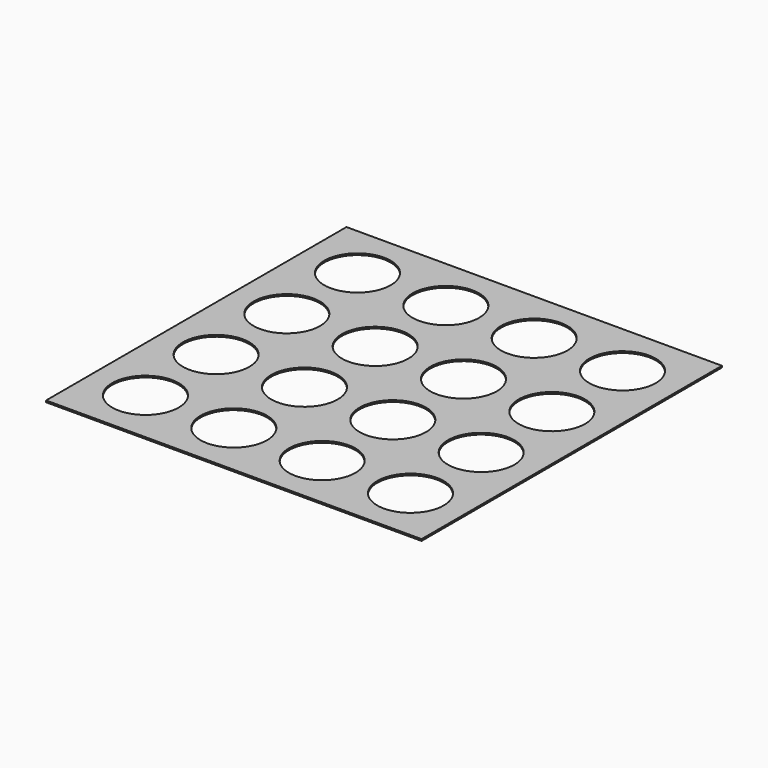
from build123d import *

# Parameters (mm, degrees)
F0_W     = 340
F0_H     = 340
F0_R     = 30.1
F1_DEPTH = 1.5


with BuildPart() as f1:
    # F0 (on Top) → F1 (new body)
    with BuildSketch(Plane.XY):
        Rectangle(F0_W, F0_H)
        with Locations((-120, -120)):
            Circle(F0_R, mode=Mode.SUBTRACT)
        with Locations((-40, -120)):
            Circle(F0_R, mode=Mode.SUBTRACT)
        with Locations((-120, -40)):
            Circle(F0_R, mode=Mode.SUBTRACT)
        with Locations((-40, -40)):
            Circle(F0_R, mode=Mode.SUBTRACT)
        with Locations((40, -120)):
            Circle(F0_R, mode=Mode.SUBTRACT)
        with Locations((120, -120)):
            Circle(F0_R, mode=Mode.SUBTRACT)
        with Locations((40, -40)):
            Circle(F0_R, mode=Mode.SUBTRACT)
        with Locations((120, -40)):
            Circle(F0_R, mode=Mode.SUBTRACT)
        with Locations((-120, 40)):
            Circle(F0_R, mode=Mode.SUBTRACT)
        with Locations((-40, 40)):
            Circle(F0_R, mode=Mode.SUBTRACT)
        with Locations((-120, 120)):
            Circle(F0_R, mode=Mode.SUBTRACT)
        with Locations((-40, 120)):
            Circle(F0_R, mode=Mode.SUBTRACT)
        with Locations((40, 40)):
            Circle(F0_R, mode=Mode.SUBTRACT)
        with Locations((120, 40)):
            Circle(F0_R, mode=Mode.SUBTRACT)
        with Locations((40, 120)):
            Circle(F0_R, mode=Mode.SUBTRACT)
        with Locations((120, 120)):
            Circle(F0_R, mode=Mode.SUBTRACT)
    extrude(amount=F1_DEPTH)


solid = f1.part
